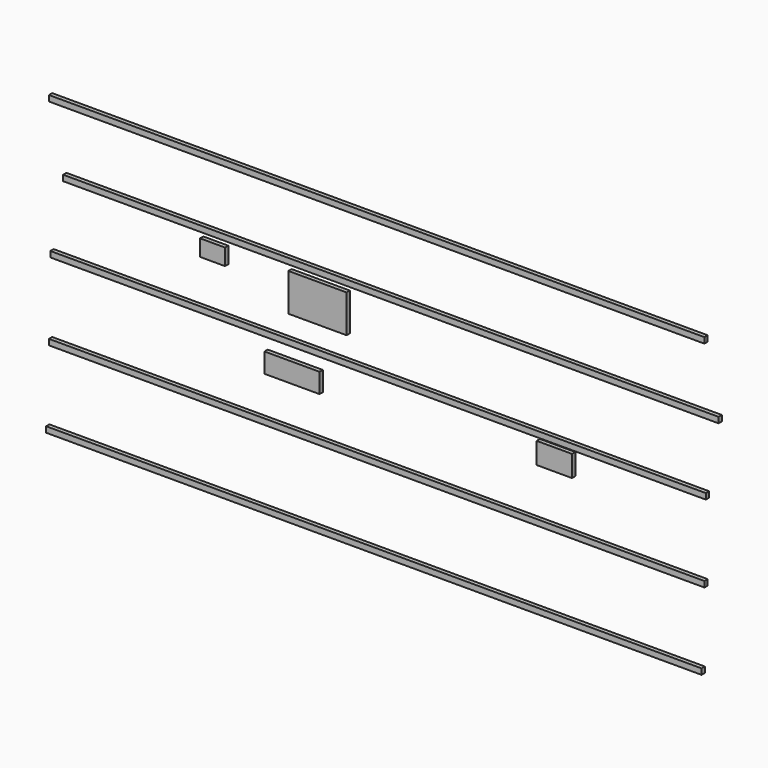
from build123d import *

# Parameters (mm, degrees)
F0_W     = 215.567014
F0_H     = 130
F0_W_2   = 336.030949
F0_H_2   = 120
F0_W_3   = 355.051514
F0_H_3   = 230
F0_W_4   = 4000
F0_H_4   = 35
F0_W_5   = 152.164927
F0_H_5   = 100
F1_DEPTH = 25


with BuildPart() as f1:
    # F0 (on Front) → F1 (new body)
    with BuildSketch(Plane.XZ):
        with Locations((1010.01242, 1295)):
            Rectangle(F0_W, F0_H)
        with Locations((-590.889642, 1240)):
            Rectangle(F0_W_2, F0_H_2)
        with Locations((-435.554569, 1665)):
            Rectangle(F0_W_3, F0_H_3)
        with Locations((-91.589451, 447.5)):
            Rectangle(F0_W_4, F0_H_4)
        with Locations((-74.235678, 922.5)):
            Rectangle(F0_W_4, F0_H_4)
        with Locations((-65.558672, 1397.5)):
            Rectangle(F0_W_4, F0_H_4)
        with Locations((12.533665, 1832.5)):
            Rectangle(F0_W_4, F0_H_4)
        with Locations((-74.235678, 2232.5)):
            Rectangle(F0_W_4, F0_H_4)
        with Locations((-1075.915346, 1730)):
            Rectangle(F0_W_5, F0_H_5)
    extrude(amount=F1_DEPTH)


solid = f1.part
